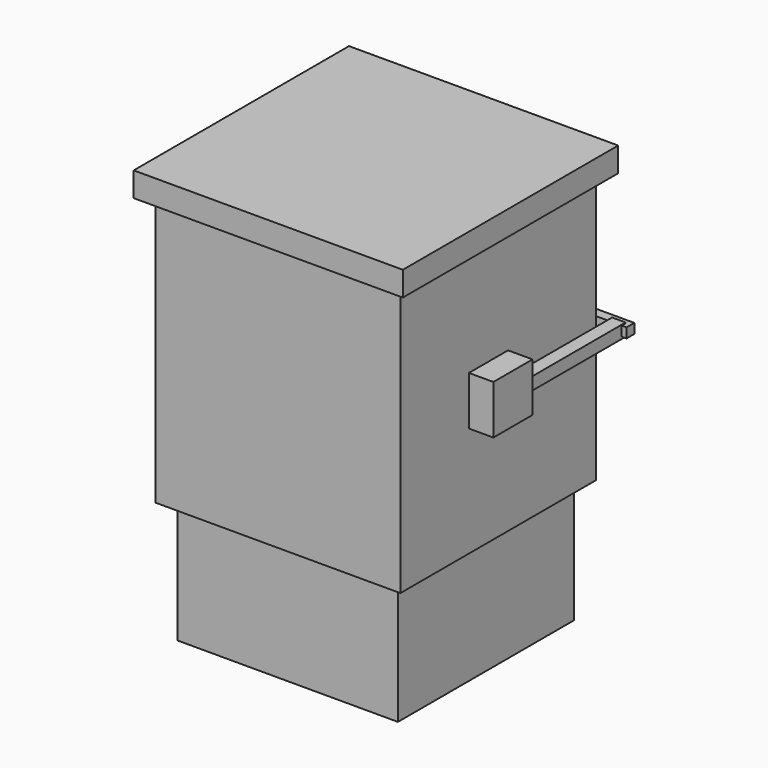
from build123d import *

# Parameters (mm, degrees)
F0_W      = 50
F0_H      = 50
F0_W_2    = 40
F0_H_2    = 40
F1_DEPTH  = 55
F2_W      = 55
F2_H      = 55
F3_DEPTH  = 5
F4_W      = 45
F4_H      = 45
F4_W_2    = 40
F4_H_2    = 40
F5_DEPTH  = 25
F6_W      = 10
F6_H      = 10
F7_DEPTH  = 5
F8_W      = 2
F8_H      = 2
F9_DEPTH  = 25
F11_W     = 10
F11_H     = 10
F12_DEPTH = 5
F13_W     = 2.745383
F13_H     = 2.574146
F14_DEPTH = 25


with BuildPart() as f1:
    # F0 (on Top) → F1 (new body)
    with BuildSketch(Plane.XY):
        with Locations((25, 25)):
            Rectangle(F0_W, F0_H)
        with Locations((25, 25)):
            Rectangle(F0_W_2, F0_H_2, mode=Mode.SUBTRACT)
    extrude(amount=F1_DEPTH)

    # F2 (on face) → F3 (join)
    with BuildSketch(Plane.XY.offset(55)):
        with Locations((25, 25)):
            Rectangle(F2_W, F2_H)
    extrude(amount=F3_DEPTH)

    # F4 (on face) → F5 (join)
    with BuildSketch(Plane(origin=(0, 0, 0), x_dir=(1, 0, 0), z_dir=(0, 0, -1))):
        with Locations((25, -25)):
            Rectangle(F4_W, F4_H)
        with Locations((25, -25)):
            Rectangle(F4_W_2, F4_H_2, mode=Mode.SUBTRACT)
    extrude(amount=F5_DEPTH)

    # F6 (on face) → F7 (join)
    with BuildSketch(Plane(origin=(0, 50, 0), x_dir=(-1, 0, 0), z_dir=(0, 1, 0))):
        with Locations((-25, 27.5)):
            Rectangle(F6_W, F6_H)
    extrude(amount=F7_DEPTH)

    # F8 (on face) → F9 (join)
    with BuildSketch(Plane.YZ.offset(30)):
        with Locations((52.5, 27.5)):
            Rectangle(F8_W, F8_H)
    extrude(amount=F9_DEPTH)

    # F11 (on face) → F12 (join)
    with BuildSketch(Plane.YZ.offset(50)):
        with Locations((22.5, 27.5)):
            Rectangle(F11_W, F11_H)
    extrude(amount=F12_DEPTH)

    # F13 (on face) → F14 (join)
    with BuildSketch(Plane(origin=(0, 27.5, 0), x_dir=(-1, 0, 0), z_dir=(0, 1, 0))):
        with Locations((-52.646901, 27.373498)):
            Rectangle(F13_W, F13_H)
    extrude(amount=F14_DEPTH)


solid = f1.part
